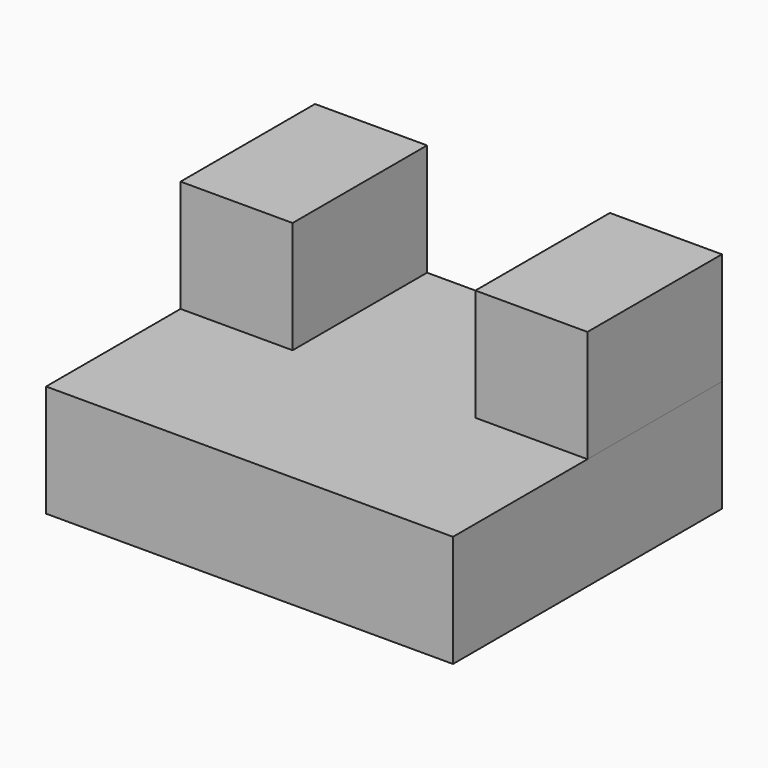
from build123d import *

# Parameters (mm, degrees)
F0_W     = 92.235901
F0_H     = 25.380349
F1_DEPTH = 76.2
F2_W     = 25.4
F2_H     = 38.1
F3_DEPTH = 25.4
F4_W     = 25.4
F4_H     = 38.1
F5_DEPTH = 25.4


with BuildPart() as f1:
    # F0 (on Front) → F1 (new body)
    with BuildSketch(Plane.XZ):
        with Locations((-12.690175, -18.416228)):
            Rectangle(F0_W, F0_H)
    extrude(amount=F1_DEPTH)

    # F2 (on face) → F3 (join)
    with BuildSketch(Plane.XY.offset(-5.726054)):
        with Locations((-46.108126, -19.05)):
            Rectangle(F2_W, F2_H)
    extrude(amount=F3_DEPTH)

    # F4 (on face) → F5 (join)
    with BuildSketch(Plane.XY.offset(-5.726054)):
        with Locations((20.727775, -19.05)):
            Rectangle(F4_W, F4_H)
    extrude(amount=F5_DEPTH)


solid = f1.part
